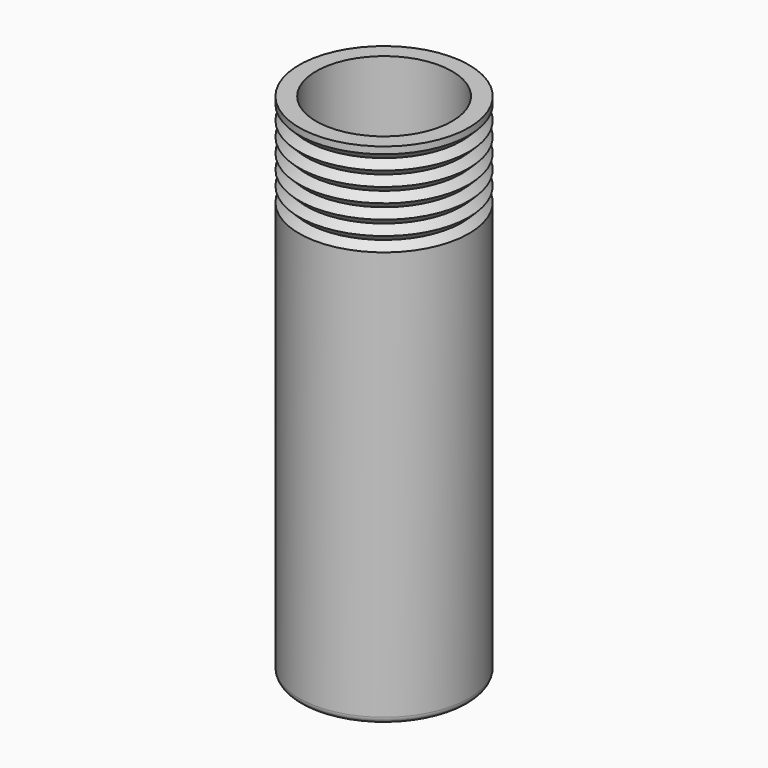
from build123d import *

# Parameters (mm, degrees)
F2_R = 2


with BuildPart() as f1:
    # F0 (on Front) → F1 (revolve)
    with BuildSketch(Plane.XZ):
        Polygon((0, 2), (0, 0), (25, 0), (25, 122.523467), (22.87868, 124.644788), (25, 126.766108), (22.87868, 128.887428), (25, 131.008749), (22.87868, 133.130069), (25, 135.251389), (22.87868, 137.37271), (25, 139.49403), (22.87868, 141.61535), (25, 143.736671), (22.87868, 145.857991), (25, 147.979311), (25, 150), (20, 150), (20, 2), align=None)
    revolve(axis=Axis((0, 0, 123.522466), (0, 0, 1)))

    # F2
    f2_edges = [f1.edges().sort_by_distance(p)[0] for p in [
        (-25, 0, 0),
    ]]
    fillet(f2_edges, radius=F2_R)


solid = f1.part
